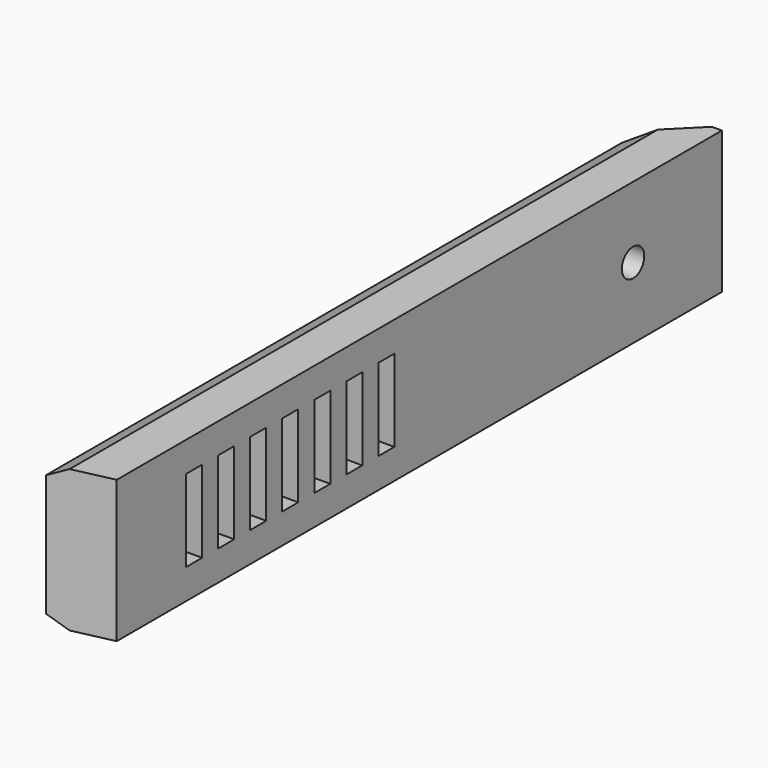
from build123d import *

# Parameters (mm, degrees)
F0_W      = 75.59621
F0_H      = 14.2
F1_DEPTH  = 6
F3_DEPTH  = 14.2
F4_SIZE2  = 2
F4_SIZE   = 1
F5_SIZE2  = 5
F5_SIZE   = 5
F6_W      = 2
F6_H      = 8.2
F7_DEPTH  = 6
F9_DEPTH  = 2
F10_SIZE  = 0.5
F11_R     = 1.4
F12_DEPTH = 4


with BuildPart() as f1:
    # F0 (on Right) → F1 (new body)
    with BuildSketch(Plane.YZ):
        with Locations((-38.098105, 7.4)):
            Rectangle(F0_W, F0_H)
    extrude(amount=F1_DEPTH)

    # F2 (on face) → F3 (join, through all)
    with BuildSketch(Plane(origin=(0, 0, 0.3), x_dir=(1, 0, 0), z_dir=(0, 0, -1))):
        Polygon((0, 77.2236436599), (0, 75.89621), (6, 75.89621), align=None)
    extrude(amount=-F3_DEPTH)

    # F4
    f4_edges = [f1.edges().sort_by_distance(p)[0] for p in [
        (0, -38.761822, 0.3),
        (0, -38.761822, 14.5),
    ]]
    chamfer(f4_edges, length=F4_SIZE, length2=F4_SIZE2)

    # F5
    f5_edges = [f1.edges().sort_by_distance(p)[0] for p in [
        (0, -0.3, 7.4),
    ]]
    chamfer(f5_edges, length=F5_SIZE, length2=F5_SIZE2)

    # F6 (on face) → F7 (cut, through all)
    with BuildSketch(Plane(origin=(0, 0, 0), x_dir=(0, -1, 0), z_dir=(-1, 0, 0))):
        with Locations((42.2236436599, 7.4)):
            Rectangle(F6_W, F6_H)
        with Locations((66.2236436599, 7.4)):
            Rectangle(F6_W, F6_H)
        with Locations((46.2236436599, 7.4)):
            Rectangle(F6_W, F6_H)
        with Locations((50.2236436599, 7.4)):
            Rectangle(F6_W, F6_H)
        with Locations((54.2236436599, 7.4)):
            Rectangle(F6_W, F6_H)
        with Locations((58.2236436599, 7.4)):
            Rectangle(F6_W, F6_H)
        with Locations((62.2236436599, 7.4)):
            Rectangle(F6_W, F6_H)
    extrude(amount=-F7_DEPTH, mode=Mode.SUBTRACT)

    # F8 (on face) → F9 (cut)
    with BuildSketch(Plane(origin=(0, 0, 0), x_dir=(0, -1, 0), z_dir=(-1, 0, 0))):
        with BuildLine():
            Line((0.3, 3.25), (11.4, 3.25))
            ThreePointArc((11.4, 3.25), (15.55, 7.4), (11.4, 11.55))
            Line((11.4, 11.55), (0.3, 11.55))
            Line((0.3, 11.55), (0.3, 3.25))
        make_face()
    extrude(amount=-F9_DEPTH, mode=Mode.SUBTRACT)

    # F10
    f10_edges = [f1.edges().sort_by_distance(p)[0] for p in [
        (1, -4.3, 11.55),
        (0, -8.35, 11.55),
        (1, -4.3, 3.25),
    ]]
    chamfer(f10_edges, length=F10_SIZE)

    # F11 (on face) → F12 (cut, through all)
    with BuildSketch(Plane(origin=(2, 0, 0), x_dir=(0, -1, 0), z_dir=(-1, 0, 0))):
        with Locations((11.4, 7.4)):
            Circle(F11_R)
    extrude(amount=-F12_DEPTH, mode=Mode.SUBTRACT)


solid = f1.part
